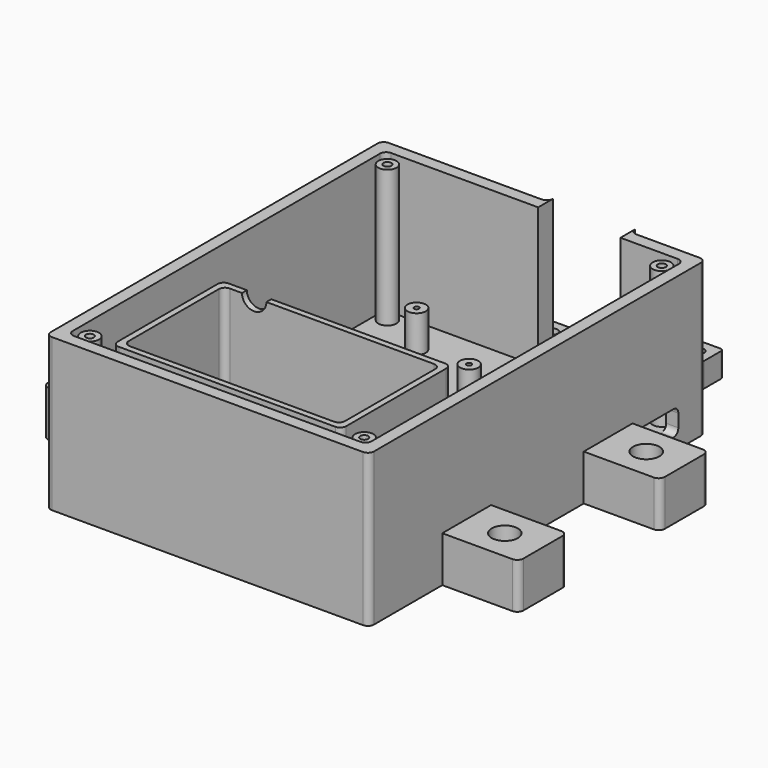
from build123d import *

# Parameters (mm, degrees)
PAD_DEPTH       = 50
POCKET_DEPTH    = 46
POCKET001_DEPTH = 42
SKETCH003_R     = 3
PAD001_DEPTH    = 12
SKETCH004_R     = 0.8
POCKET002_DEPTH = 8
PAD002_DEPTH    = 45
SKETCH006_R     = 0.8
PAD003_DEPTH    = 12
POCKET003_DEPTH = 2.5
SKETCH008_R     = 4.3
PAD004_DEPTH    = 15
SKETCH009_R     = 3
SKETCH009_R_2   = 1.3
PAD005_DEPTH    = 45
POCKET004_DEPTH = 4
SKETCH011_W     = 13
SKETCH011_H     = 2.5
SKETCH011_W_2   = 3
POCKET005_DEPTH = 1.5
SKETCH018_R     = 1.75
PAD007_DEPTH    = 8
POCKET009_DEPTH = 2.5
SKETCH027_R     = 4
POCKET013_DEPTH = 5


with BuildPart() as part:
    # Sketch → Pad (new body)
    with BuildSketch(Plane.XY):
        with BuildLine():
            Line((-53, 67), (-53, -67))
            ThreePointArc((-53, -67), (-52.414214, -68.414214), (-51, -69))
            Line((-51, -69), (51, -69))
            ThreePointArc((51, -69), (52.414214, -68.414214), (53, -67))
            Line((53, -67), (53, 67))
            ThreePointArc((53, 67), (52.414214, 68.414214), (51, 69))
            Line((51, 69), (30.25, 69))
            ThreePointArc((28.25, 71), (28.835786, 69.585786), (30.25, 69))
            Line((28.25, 71), (28.25, 97))
            ThreePointArc((28.25, 97), (27.664214, 98.414214), (26.25, 99))
            Line((26.25, 99), (3.25, 99))
            ThreePointArc((3.25, 99), (1.835786, 98.414214), (1.25, 97))
            Line((1.25, 97), (1.25, 71))
            ThreePointArc((-0.75, 69), (0.664214, 69.585786), (1.25, 71))
            Line((-0.75, 69), (-51, 69))
            ThreePointArc((-51, 69), (-52.414214, 68.414214), (-53, 67))
        make_face()
    extrude(amount=PAD_DEPTH)

    # Sketch001 (on Face18 of Pad) → Pocket (cut)
    with BuildSketch(Plane.XY.offset(50)):
        with BuildLine():
            ThreePointArc((-47, 65), (-48.414214, 64.414214), (-49, 63))
            Line((-49, -63), (-49, 63))
            ThreePointArc((-49, -63), (-48.414214, -64.414214), (-47, -65))
            Line((47, -65), (-47, -65))
            ThreePointArc((47, -65), (48.414214, -64.414214), (49, -63))
            Line((49, 63), (49, -63))
            ThreePointArc((49, 63), (48.414214, 64.414214), (47, 65))
            Line((-47, 65), (47, 65))
        make_face()
    extrude(amount=-POCKET_DEPTH, mode=Mode.SUBTRACT)

    # Sketch002 (on Face5 of Pocket) → Pocket001 (cut)
    with BuildSketch(Plane.XY.offset(50)):
        with BuildLine():
            ThreePointArc((3.25, 99), (1.835786, 98.414214), (1.25, 97))
            Line((1.25, 65), (1.25, 97))
            ThreePointArc((1.25, 65), (1.835786, 63.585786), (3.25, 63))
            Line((26.25, 63), (3.25, 63))
            ThreePointArc((26.25, 63), (27.664214, 63.585786), (28.25, 65))
            Line((28.25, 97), (28.25, 65))
            ThreePointArc((28.25, 97), (27.664214, 98.414214), (26.25, 99))
            Line((3.25, 99), (26.25, 99))
        make_face()
    extrude(amount=-POCKET001_DEPTH, mode=Mode.SUBTRACT)

    # Sketch003 (on Face27 of Pocket) → Pad001 (join)
    with BuildSketch(Plane.XY.offset(4)):
        with Locations((-29, 53)):
            Circle(SKETCH003_R)
        with Locations((1, 37)):
            Circle(SKETCH003_R)
    extrude(amount=PAD001_DEPTH)

    # Sketch004 (on Face34 of Pad001) → Pocket002 (cut)
    with BuildSketch(Plane.XY.offset(16)):
        with Locations((-29, 53)):
            Circle(SKETCH004_R)
        with Locations((1, 37)):
            Circle(SKETCH004_R)
    extrude(amount=-POCKET002_DEPTH, mode=Mode.SUBTRACT)

    # Sketch005 (on Face27 of Pocket) → Pad002 (join)
    with BuildSketch(Plane.XY.offset(4)):
        with BuildLine():
            ThreePointArc((-35.5, -16), (-36.914214, -16.585786), (-37.5, -18))
            Line((-37.5, -59), (-37.5, -18))
            ThreePointArc((-37.5, -59), (-36.914214, -60.414214), (-35.5, -61))
            Line((35.5, -61), (-35.5, -61))
            ThreePointArc((35.5, -61), (36.914214, -60.414214), (37.5, -59))
            Line((37.5, -18), (37.5, -59))
            ThreePointArc((37.5, -18), (36.914214, -16.585786), (35.5, -16))
            Line((-35.5, -16), (35.5, -16))
        make_face()
        with BuildLine():
            ThreePointArc((-33.5, -18), (-34.914214, -18.585786), (-35.5, -20))
            Line((-35.5, -57), (-35.5, -20))
            ThreePointArc((-35.5, -57), (-34.914214, -58.414214), (-33.5, -59))
            Line((33.5, -59), (-33.5, -59))
            ThreePointArc((33.5, -59), (34.914214, -58.414214), (35.5, -57))
            Line((35.5, -20), (35.5, -57))
            ThreePointArc((35.5, -20), (34.914214, -18.585786), (33.5, -18))
            Line((-33.5, -18), (33.5, -18))
        make_face(mode=Mode.SUBTRACT)
    extrude(amount=PAD002_DEPTH)

    # Sketch006 (on Face27 of Pocket) → Pad003 (join)
    with BuildSketch(Plane.XY.offset(4)):
        with BuildLine():
            ThreePointArc((28.5, 20), (27.792893, 19.707107), (27.5, 19))
            Line((27.5, -6), (27.5, 19))
            ThreePointArc((27.5, -6), (27.792893, -6.707107), (28.5, -7))
            Line((29.5, -7), (28.5, -7))
            ThreePointArc((29.5, -7), (30.207107, -6.707107), (30.5, -6))
            Line((30.5, 19), (30.5, -6))
            ThreePointArc((30.5, 19), (30.207107, 19.707107), (29.5, 20))
            Line((28.5, 20), (29.5, 20))
        make_face()
        with BuildLine():
            ThreePointArc((-33, 20), (-33.707107, 19.707107), (-34, 19))
            Line((-34, 15), (-34, 19))
            ThreePointArc((-34, 15), (-33.707107, 14.292893), (-33, 14))
            Line((5, 14), (-33, 14))
            ThreePointArc((5, 14), (5.707107, 14.292893), (6, 15))
            Line((6, 19), (6, 15))
            ThreePointArc((6, 19), (5.707107, 19.707107), (5, 20))
            Line((-33, 20), (5, 20))
        make_face()
        with Locations((-31.44, 16.56)):
            Circle(SKETCH006_R, mode=Mode.SUBTRACT)
        with BuildLine():
            ThreePointArc((-33, -3.5), (-33.707107, -3.792893), (-34, -4.5))
            Line((-34, -6), (-34, -4.5))
            ThreePointArc((-34, -6), (-33.707107, -6.707107), (-33, -7))
            Line((5, -7), (-33, -7))
            ThreePointArc((5, -7), (5.707107, -6.707107), (6, -6))
            Line((6, -4.5), (6, -6))
            ThreePointArc((6, -4.5), (5.707107, -3.792893), (5, -3.5))
            Line((-33, -3.5), (5, -3.5))
        make_face()
        with Locations((-31.44, -5.59)):
            Circle(SKETCH006_R, mode=Mode.SUBTRACT)
    extrude(amount=PAD003_DEPTH)

    # Sketch007 (on Face29 of Pocket001) → Pocket003 (cut)
    with BuildSketch(Plane.XY.offset(8)):
        with BuildLine():
            ThreePointArc((7.8, 120), (6.527208, 119.472792), (6, 118.2))
            Line((6, 71.8), (6, 118.2))
            ThreePointArc((6, 71.8), (6.527208, 70.527208), (7.8, 70))
            Line((21.8, 70), (7.8, 70))
            ThreePointArc((21.8, 70), (23.072792, 70.527208), (23.6, 71.8))
            Line((23.6, 118.2), (23.6, 71.8))
            ThreePointArc((23.6, 118.2), (23.072792, 119.472792), (21.8, 120))
            Line((7.8, 120), (21.8, 120))
        make_face()
        with BuildLine():
            ThreePointArc((10.1, 117.7), (8.827208, 117.172792), (8.3, 115.9))
            Line((8.3, 74.1), (8.3, 115.9))
            ThreePointArc((8.3, 74.1), (8.827208, 72.827208), (10.1, 72.3))
            Line((19.5, 72.3), (10.1, 72.3))
            ThreePointArc((19.5, 72.3), (20.772792, 72.827208), (21.3, 74.1))
            Line((21.3, 115.9), (21.3, 74.1))
            ThreePointArc((21.3, 115.9), (20.772792, 117.172792), (19.5, 117.7))
            Line((10.1, 117.7), (19.5, 117.7))
        make_face(mode=Mode.SUBTRACT)
    extrude(amount=-POCKET003_DEPTH, mode=Mode.SUBTRACT)

    # Sketch008 → Pad004 (join)
    with BuildSketch(Plane.XY):
        with BuildLine():
            Line((53, -19), (76, -19))
            ThreePointArc((78, -21), (77.414214, -19.585786), (76, -19))
            Line((78, -21), (78, -37))
            ThreePointArc((76, -39), (77.414214, -38.414214), (78, -37))
            Line((76, -39), (53, -39))
            Line((53, -39), (53, -19))
        make_face()
        with Locations((65.5, -29)):
            Circle(SKETCH008_R, mode=Mode.SUBTRACT)
        with BuildLine():
            Line((-53, -19), (-76, -19))
            ThreePointArc((-76, -19), (-77.414214, -19.585786), (-78, -21))
            Line((-78, -21), (-78, -37))
            ThreePointArc((-78, -37), (-77.414214, -38.414214), (-76, -39))
            Line((-76, -39), (-53, -39))
            Line((-53, -39), (-53, -19))
        make_face()
        with Locations((-65.5, -29)):
            Circle(SKETCH008_R, mode=Mode.SUBTRACT)
        with BuildLine():
            Line((-53, 39), (-76, 39))
            ThreePointArc((-76, 39), (-77.414214, 38.414214), (-78, 37))
            Line((-78, 37), (-78, 21))
            ThreePointArc((-78, 21), (-77.414214, 19.585786), (-76, 19))
            Line((-76, 19), (-53, 19))
            Line((-53, 19), (-53, 39))
        make_face()
        with Locations((-65.5, 29)):
            Circle(SKETCH008_R, mode=Mode.SUBTRACT)
        with BuildLine():
            Line((53, 39), (76, 39))
            ThreePointArc((78, 37), (77.414214, 38.414214), (76, 39))
            Line((78, 37), (78, 21))
            ThreePointArc((76, 19), (77.414214, 19.585786), (78, 21))
            Line((76, 19), (53, 19))
            Line((53, 19), (53, 39))
        make_face()
        with Locations((65.5, 29)):
            Circle(SKETCH008_R, mode=Mode.SUBTRACT)
    extrude(amount=PAD004_DEPTH)

    # Sketch009 (on Face27 of Pocket) → Pad005 (join)
    with BuildSketch(Plane.XY.offset(4)):
        with Locations((-45, -61)):
            Circle(SKETCH009_R)
        with Locations((-45, -61)):
            Circle(SKETCH009_R_2, mode=Mode.SUBTRACT)
        with Locations((45, -61)):
            Circle(SKETCH009_R)
        with Locations((45, -61)):
            Circle(SKETCH009_R_2, mode=Mode.SUBTRACT)
        with Locations((-45, 61)):
            Circle(SKETCH009_R)
        with Locations((-45, 61)):
            Circle(SKETCH009_R_2, mode=Mode.SUBTRACT)
        with Locations((45, 61)):
            Circle(SKETCH009_R)
        with Locations((45, 61)):
            Circle(SKETCH009_R_2, mode=Mode.SUBTRACT)
    extrude(amount=PAD005_DEPTH)

    # Sketch010 (on Face14 of Pad005) → Pocket004 (cut)
    with BuildSketch(Plane.YZ.offset(53)):
        with BuildLine():
            Line((57.8, 6.1), (57.8, 10.3))
            ThreePointArc((57.8, 10.3), (57.214214, 11.714214), (55.8, 12.3))
            Line((55.8, 12.3), (42, 12.3))
            Line((42, 12.3), (42, 4.1))
            Line((42, 4.1), (55.8, 4.1))
            ThreePointArc((55.8, 4.1), (57.214214, 4.685786), (57.8, 6.1))
        make_face()
    extrude(amount=-POCKET004_DEPTH, mode=Mode.SUBTRACT)

    # Sketch011 (on Face33 of Pocket004) → Pocket005 (cut)
    with BuildSketch(Plane.XY.offset(8)):
        with Locations((14.8, 80.45)):
            Rectangle(SKETCH011_W, SKETCH011_H)
        with Locations((4.5, 80.45)):
            Rectangle(SKETCH011_W_2, SKETCH011_H)
        with Locations((25.1, 80.45)):
            Rectangle(SKETCH011_W_2, SKETCH011_H)
    extrude(amount=-POCKET005_DEPTH, mode=Mode.SUBTRACT)

    # Sketch018 (on Face17 of Pad) → Pad007 (join)
    with BuildSketch(Plane(origin=(0, 0, 0), x_dir=(1, 0, 0), z_dir=(0, 0, -1))):
        with BuildLine():
            Line((1.25, -72), (-6.75, -72))
            ThreePointArc((-6.75, -72), (-7.457107, -72.292893), (-7.75, -73))
            Line((-7.75, -73), (-7.75, -80))
            ThreePointArc((-7.75, -80), (-7.457107, -80.707107), (-6.75, -81))
            Line((-6.75, -81), (1.25, -81))
            Line((1.25, -81), (1.25, -72))
        make_face()
        with Locations((-3.25, -76.5)):
            Circle(SKETCH018_R, mode=Mode.SUBTRACT)
        with BuildLine():
            Line((28.25, -87), (36.25, -87))
            ThreePointArc((37.25, -88), (36.957107, -87.292893), (36.25, -87))
            Line((37.25, -88), (37.25, -95))
            ThreePointArc((36.25, -96), (36.957107, -95.707107), (37.25, -95))
            Line((36.25, -96), (28.25, -96))
            Line((28.25, -96), (28.25, -87))
        make_face()
        with Locations((32.75, -91.5)):
            Circle(SKETCH018_R, mode=Mode.SUBTRACT)
    extrude(amount=-PAD007_DEPTH)

    # Sketch019 (on Face27 of Pad007) → Pocket009 (cut)
    with BuildSketch(Plane(origin=(0, 0, 0), x_dir=(1, 0, 0), z_dir=(0, 0, -1))):
        Polygon((-3.25, -79.704294), (-0.475, -78.102147), (-0.475, -74.897853), (-3.25, -73.295706), (-6.025, -74.897853), (-6.025, -78.102147), align=None)
        Polygon((35.525, -93.102147), (35.525, -89.897853), (32.75, -88.295706), (29.975, -89.897853), (29.975, -93.102147), (32.75, -94.704294), align=None)
    extrude(amount=-POCKET009_DEPTH, mode=Mode.SUBTRACT)

    # Sketch027 (on Face125 of Pocket009) → Pocket013 (cut)
    with BuildSketch(Plane(origin=(0, -16, 0), x_dir=(-1, 0, 0), z_dir=(0, 1, 0))):
        with Locations((25.5, 49)):
            Circle(SKETCH027_R)
    extrude(amount=-POCKET013_DEPTH, mode=Mode.SUBTRACT)


solid = part.part
